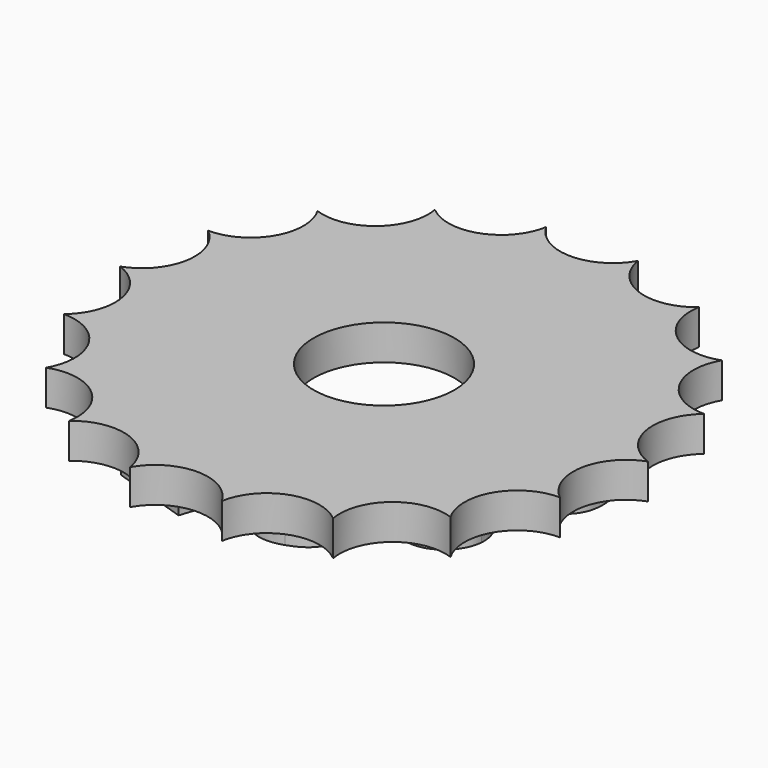
from build123d import *

# Parameters (mm, degrees)
EXTRUDE001_DEPTH   = 1
PAD_DEPTH          = 2
POLARPATTERN_COUNT = 18
SKETCH001_R        = 4
POCKET_DEPTH       = 0.001
POCKET_DEPTH_BACK  = 2.001


with BuildPart() as extrude001:
    # Strings → Extrude001 (new body, symmetric)
    with BuildSketch(Plane(origin=(0, -0.2446599906, 0), x_dir=(0, 1, 0), z_dir=(0, 0, 1))):
        with BuildLine():
            add(Edge.make_bspline(
                [(2.498639998, -8.6508700481), (2.498639998, -7.3772676786), (1.9092286689, -6.6871529063)],
                knots=[0, 0, 0, 1, 1, 1], degree=2))
            Line((2.498639998, -8.6508700481), (2.498639998, -9.7911884487))
            add(Edge.make_bspline(
                [(1.9062668029, -11.7519437245), (2.498639998, -11.0588670863), (2.498639998, -9.7911884487)],
                knots=[0, 0, 0, 1, 1, 1], degree=2))
            add(Edge.make_bspline(
                [(0.2416981246, -12.4450203628), (1.3168554737, -12.4450203628), (1.9062668029, -11.7519437245)],
                knots=[0, 0, 0, 1, 1, 1], degree=2))
            add(Edge.make_bspline(
                [(-1.4228705536, -11.7549055905), (-0.8334592245, -12.4450203628), (0.2416981246, -12.4450203628)],
                knots=[0, 0, 0, 1, 1, 1], degree=2))
            add(Edge.make_bspline(
                [(-2.0093200168, -9.7941503147), (-2.0093200168, -11.0677526842), (-1.4228705536, -11.7549055905)],
                knots=[0, 0, 0, 1, 1, 1], degree=2))
            Line((-2.0093200168, -9.7941503147), (-2.0093200168, -8.6508700481))
            add(Edge.make_bspline(
                [(-1.4199086877, -6.6930766383), (-2.0093200168, -7.3861532766), (-2.0093200168, -8.6508700481)],
                knots=[0, 0, 0, 1, 1, 1], degree=2))
            add(Edge.make_bspline(
                [(0.2505837225, -6), (-0.8275354926, -6), (-1.4199086877, -6.6930766383)],
                knots=[0, 0, 0, 1, 1, 1], degree=2))
            add(Edge.make_bspline(
                [(1.9092286689, -6.6871529063), (1.3227792057, -6), (0.2505837225, -6)],
                knots=[0, 0, 0, 1, 1, 1], degree=2))
        make_face()
        with BuildLine():
            add(Edge.make_bspline(
                [(1.0028976803, -9.9689004073), (1.0028976803, -10.6323583858), (0.8192619899, -10.9611255091)],
                knots=[0, 0, 0, 1, 1, 1], degree=2))
            Line((1.0028976803, -9.9689004073), (1.0028976803, -8.4435394298))
            add(Edge.make_bspline(
                [(0.8133382579, -7.4661236579), (0.9969739484, -7.7771195853), (1.0028976803, -8.4435394298)],
                knots=[0, 0, 0, 1, 1, 1], degree=2))
            add(Edge.make_bspline(
                [(0.2505837225, -7.1551277305), (0.6326644334, -7.1551277305), (0.8133382579, -7.4661236579)],
                knots=[0, 0, 0, 1, 1, 1], degree=2))
            add(Edge.make_bspline(
                [(-0.3269801427, -7.4750092558), (-0.1433444522, -7.1551277305), (0.2505837225, -7.1551277305)],
                knots=[0, 0, 0, 1, 1, 1], degree=2))
            add(Edge.make_bspline(
                [(-0.5076539672, -8.4850055535), (-0.5076539672, -7.7948907812), (-0.3269801427, -7.4750092558)],
                knots=[0, 0, 0, 1, 1, 1], degree=2))
            Line((-0.5076539672, -8.4850055535), (-0.5076539672, -10.0607182525))
            add(Edge.make_bspline(
                [(-0.3210564107, -10.9848204369), (-0.4958065033, -10.6797482414), (-0.5076539672, -10.0607182525)],
                knots=[0, 0, 0, 1, 1, 1], degree=2))
            add(Edge.make_bspline(
                [(0.2416981246, -11.2898926324), (-0.1433444522, -11.2898926324), (-0.3210564107, -10.9848204369)],
                knots=[0, 0, 0, 1, 1, 1], degree=2))
            add(Edge.make_bspline(
                [(0.8192619899, -10.9611255091), (0.6385881653, -11.2898926324), (0.2416981246, -11.2898926324)],
                knots=[0, 0, 0, 1, 1, 1], degree=2))
        make_face(mode=Mode.SUBTRACT)
        Polygon((3.7605886048, -4.8619362014), (4.9754619588, -3.9792790435), (8.7637498788, -9.1934100462), (8.6535246829, -9.2734933386), (5.7984678052, -10.1762719206), (5.1299464076, -9.2561311554), (6.5722085454, -8.7317990549), align=None)
        with BuildLine():
            Line((5.2741591999, -3.9372009483), (6.6690259883, 0.3557576029))
            Line((6.6690259883, 0.3557576029), (7.7676177435, -0.0011964965))
            Line((7.7676177435, -0.0011964965), (6.980488191, -2.4237321618))
            Line((6.980488191, -2.4237321618), (8.1315513767, -1.9195054299))
            add(Edge.make_bspline(
                [(9.413027169, -1.3206235542), (8.9543879582, -1.48614595), (8.1315513767, -1.9195054299)],
                knots=[0, 0, 0, 1, 1, 1], degree=2))
            add(Edge.make_bspline(
                [(10.2573595932, -1.127820261), (9.8753985486, -1.1531995234), (9.413027169, -1.3206235542)],
                knots=[0, 0, 0, 1, 1, 1], degree=2))
            add(Edge.make_bspline(
                [(10.9970671838, -1.2186798977), (10.6393206378, -1.1024409987), (10.2573595932, -1.127820261)],
                knots=[0, 0, 0, 1, 1, 1], degree=2))
            add(Edge.make_bspline(
                [(12.1199277276, -2.1814631203), (11.8449546667, -1.4941752411), (10.9970671838, -1.2186798977)],
                knots=[0, 0, 0, 1, 1, 1], degree=2))
            add(Edge.make_bspline(
                [(12.0746284671, -3.86403265), (12.3986329573, -2.8668493645), (12.1199277276, -2.1814631203)],
                knots=[0, 0, 0, 1, 1, 1], degree=2))
            add(Edge.make_bspline(
                [(11.4446481834, -4.9019414321), (11.8732697444, -4.4837510761), (12.0746284671, -3.86403265)],
                knots=[0, 0, 0, 1, 1, 1], degree=2))
            add(Edge.make_bspline(
                [(10.4512604049, -5.4480571389), (11.0169418893, -5.3173148861), (11.4446481834, -4.9019414321)],
                knots=[0, 0, 0, 1, 1, 1], degree=2))
            add(Edge.make_bspline(
                [(9.3343814079, -5.3965901731), (9.8893110894, -5.5768977567), (10.4512604049, -5.4480571389)],
                knots=[0, 0, 0, 1, 1, 1], degree=2))
            Line((9.3343814079, -5.3965901731), (9.7984217371, -3.9684208913))
            add(Edge.make_bspline(
                [(10.5262929105, -3.9806916785), (10.1956049102, -4.0974735273), (9.7984217371, -3.9684208913)],
                knots=[0, 0, 0, 1, 1, 1], degree=2))
            add(Edge.make_bspline(
                [(10.9650535088, -3.5408813739), (10.8597978129, -3.8648250966), (10.5262929105, -3.9806916785)],
                knots=[0, 0, 0, 1, 1, 1], degree=2))
            add(Edge.make_bspline(
                [(10.9251540814, -2.9735736109), (11.0721397386, -3.2113038473), (10.9650535088, -3.5408813739)],
                knots=[0, 0, 0, 1, 1, 1], degree=2))
            add(Edge.make_bspline(
                [(10.3959850278, -2.6085501711), (10.7819005931, -2.7339417394), (10.9251540814, -2.9735736109)],
                knots=[0, 0, 0, 1, 1, 1], degree=2))
            add(Edge.make_bspline(
                [(8.8716067101, -2.9198507895), (9.9199286005, -2.4538700614), (10.3959850278, -2.6085501711)],
                knots=[0, 0, 0, 1, 1, 1], degree=2))
            Line((8.8716067101, -2.9198507895), (6.2037368389, -4.2392390324))
            Line((6.2037368389, -4.2392390324), (5.2741591999, -3.9372009483))
        make_face()
        with BuildLine():
            Line((9.7648309321, 2.9983051997), (9.9826644594, 2.3278825388))
            Line((9.9826644594, 2.3278825388), (8.9206924293, 1.9828269094))
            Line((8.9206924293, 1.9828269094), (8.6955367667, 2.6757847858))
            add(Edge.make_bspline(
                [(8.2905880399, 3.2511528408), (8.562823063, 3.0842355666), (8.6955367667, 2.6757847858)],
                knots=[0, 0, 0, 1, 1, 1], degree=2))
            add(Edge.make_bspline(
                [(7.5441982246, 3.2671221743), (8.0174377499, 3.4208870171), (8.2905880399, 3.2511528408)],
                knots=[0, 0, 0, 1, 1, 1], degree=2))
            add(Edge.make_bspline(
                [(7.0709406026, 2.8642082366), (7.2118037961, 3.1591206775), (7.5441982246, 3.2671221743)],
                knots=[0, 0, 0, 1, 1, 1], degree=2))
            add(Edge.make_bspline(
                [(7.0537095447, 2.1983800069), (6.9319790442, 2.5730279645), (7.0709406026, 2.8642082366)],
                knots=[0, 0, 0, 1, 1, 1], degree=2))
            add(Edge.make_bspline(
                [(7.4480305743, 1.7036446387), (7.1626263084, 1.8631686765), (7.0537095447, 2.1983800069)],
                knots=[0, 0, 0, 1, 1, 1], degree=2))
            add(Edge.make_bspline(
                [(8.0207588377, 1.637477827), (7.7334348401, 1.544120601), (7.4480305743, 1.7036446387)],
                knots=[0, 0, 0, 1, 1, 1], degree=2))
            Line((8.0207588377, 1.637477827), (8.4857144338, 0.2064916433))
            add(Edge.make_bspline(
                [(7.4644679003, 0.1674118074), (7.9617706736, 0.0362519959), (8.4857144338, 0.2064916433)],
                knots=[0, 0, 0, 1, 1, 1], degree=2))
            add(Edge.make_bspline(
                [(6.5677700546, 0.7418296876), (6.9690667619, 0.3023037877), (7.4644679003, 0.1674118074)],
                knots=[0, 0, 0, 1, 1, 1], degree=2))
            add(Edge.make_bspline(
                [(5.9715925941, 1.7907216727), (6.1683749822, 1.1850877563), (6.5677700546, 0.7418296876)],
                knots=[0, 0, 0, 1, 1, 1], degree=2))
            add(Edge.make_bspline(
                [(5.9292614862, 3.6175129622), (5.6366049008, 2.8217077814), (5.9715925941, 1.7907216727)],
                knots=[0, 0, 0, 1, 1, 1], degree=2))
            add(Edge.make_bspline(
                [(7.0529041429, 4.6833218849), (6.2219180717, 4.413318143), (5.9292614862, 3.6175129622)],
                knots=[0, 0, 0, 1, 1, 1], degree=2))
            add(Edge.make_bspline(
                [(8.0449241878, 4.6973340081), (7.5909324128, 4.8581378669), (7.0529041429, 4.6833218849)],
                knots=[0, 0, 0, 1, 1, 1], degree=2))
            add(Edge.make_bspline(
                [(8.8384541311, 4.1049662953), (8.4989159628, 4.5365301492), (8.0449241878, 4.6973340081)],
                knots=[0, 0, 0, 1, 1, 1], degree=2))
            add(Edge.make_bspline(
                [(9.1382996979, 4.9840788626), (8.8902520285, 4.6356543331), (8.8384541311, 4.1049662953)],
                knots=[0, 0, 0, 1, 1, 1], degree=2))
            add(Edge.make_bspline(
                [(9.7553615209, 5.4524033587), (9.3891642692, 5.3334186589), (9.1382996979, 4.9840788626)],
                knots=[0, 0, 0, 1, 1, 1], degree=2))
            add(Edge.make_bspline(
                [(11.1410187286, 5.2517440287), (10.5159250438, 5.6995254275), (9.7553615209, 5.4524033587)],
                knots=[0, 0, 0, 1, 1, 1], degree=2))
            add(Edge.make_bspline(
                [(12.1011712078, 3.7823424939), (11.7680140484, 4.8076947988), (11.1410187286, 5.2517440287)],
                knots=[0, 0, 0, 1, 1, 1], degree=2))
            add(Edge.make_bspline(
                [(12.241579364, 2.6601050494), (12.2878856598, 3.2076944988), (12.1011712078, 3.7823424939)],
                knots=[0, 0, 0, 1, 1, 1], degree=2))
            add(Edge.make_bspline(
                [(11.9216599778, 1.72775575), (12.1943578012, 2.1153325018), (12.241579364, 2.6601050494)],
                knots=[0, 0, 0, 1, 1, 1], degree=2))
            add(Edge.make_bspline(
                [(11.1898071388, 1.1909904899), (11.6489621544, 1.3401789981), (11.9216599778, 1.72775575)],
                knots=[0, 0, 0, 1, 1, 1], degree=2))
            Line((11.1898071388, 1.1909904899), (10.7266820765, 2.6163428698))
            add(Edge.make_bspline(
                [(11.0054312625, 2.9373714444), (10.9351328198, 2.6840726219), (10.7266820765, 2.6163428698)],
                knots=[0, 0, 0, 1, 1, 1], degree=2))
            add(Edge.make_bspline(
                [(10.986104648, 3.4760926294), (11.0785466071, 3.1915855338), (11.0054312625, 2.9373714444)],
                knots=[0, 0, 0, 1, 1, 1], degree=2))
            add(Edge.make_bspline(
                [(10.6488236206, 3.9582185158), (10.8735268167, 3.8225715675), (10.986104648, 3.4760926294)],
                knots=[0, 0, 0, 1, 1, 1], degree=2))
            add(Edge.make_bspline(
                [(10.1668670814, 4.0133930762), (10.4232051576, 4.0966823661), (10.6488236206, 3.9582185158)],
                knots=[0, 0, 0, 1, 1, 1], degree=2))
            add(Edge.make_bspline(
                [(9.7648309321, 2.9983051997), (9.5048951264, 3.7983053497), (10.1668670814, 4.0133930762)],
                knots=[0, 0, 0, 1, 1, 1], degree=2))
        make_face()
        Polygon((3.3004784052, 8.2422341437), (3.8324347851, 7.8557452107), (6.1722596769, 11.0762378888), (7.384736831, 10.1953216721), (7.3760321253, 10.1833406725), (6.9981744276, 5.2591542452), (6.3883376182, 4.5709567074), (4.3659448947, 6.0403110294), (3.596448911, 4.9811906694), (2.3839717569, 5.8621068861), (3.1534677406, 6.921227246), (2.6215113608, 7.3077161791), align=None)
        Polygon((5.0449119392, 6.974828994), (5.9866185036, 6.2906391261), (6.2264327012, 8.444842961), (6.2426794433, 8.6234145316), align=None, mode=Mode.SUBTRACT)
        with BuildLine():
            Line((1.9817943853, 12.4450203628), (2.37572256, 9.2521288412))
            Line((2.37572256, 9.2521288412), (1.1850524378, 8.9825990374))
            add(Edge.make_bspline(
                [(0.4031198203, 9.3232136246), (0.927370098, 9.3232136246), (1.1850524378, 8.9825990374)],
                knots=[0, 0, 0, 1, 1, 1], degree=2))
            add(Edge.make_bspline(
                [(-0.5209823641, 8.2806368012), (-0.5209823641, 9.3232136246), (0.4031198203, 9.3232136246)],
                knots=[0, 0, 0, 1, 1, 1], degree=2))
            add(Edge.make_bspline(
                [(0.2342934597, 7.1551277305), (-0.5209823641, 7.1551277305), (-0.5209823641, 8.2806368012)],
                knots=[0, 0, 0, 1, 1, 1], degree=2))
            add(Edge.make_bspline(
                [(0.7733530672, 7.3654202147), (0.5689843149, 7.1551277305), (0.2342934597, 7.1551277305)],
                knots=[0, 0, 0, 1, 1, 1], degree=2))
            add(Edge.make_bspline(
                [(0.9984548814, 7.934098482), (0.9777218195, 7.575712699), (0.7733530672, 7.3654202147)],
                knots=[0, 0, 0, 1, 1, 1], degree=2))
            Line((0.9984548814, 7.934098482), (2.500120931, 7.934098482))
            add(Edge.make_bspline(
                [(2.2039343334, 6.9418733802), (2.5060446629, 7.3802295446), (2.500120931, 7.934098482)],
                knots=[0, 0, 0, 1, 1, 1], degree=2))
            add(Edge.make_bspline(
                [(1.3686881283, 6.2517586079), (1.9018240039, 6.5035172158), (2.2039343334, 6.9418733802)],
                knots=[0, 0, 0, 1, 1, 1], degree=2))
            add(Edge.make_bspline(
                [(0.2254078618, 6), (0.8355522527, 6), (1.3686881283, 6.2517586079)],
                knots=[0, 0, 0, 1, 1, 1], degree=2))
            add(Edge.make_bspline(
                [(-0.9593385285, 6.2724916698), (-0.4587831786, 6), (0.2254078618, 6)],
                knots=[0, 0, 0, 1, 1, 1], degree=2))
            add(Edge.make_bspline(
                [(-1.73830928, 7.0485005553), (-1.4628557443, 6.5449833395), (-0.9593385285, 6.2724916698)],
                knots=[0, 0, 0, 1, 1, 1], degree=2))
            add(Edge.make_bspline(
                [(-2.0167246817, 8.179933358), (-2.0167246817, 7.5549796372), (-1.73830928, 7.0485005553)],
                knots=[0, 0, 0, 1, 1, 1], degree=2))
            add(Edge.make_bspline(
                [(-1.498398136, 9.7852647168), (-2.0167246817, 9.2136245835), (-2.0167246817, 8.179933358)],
                knots=[0, 0, 0, 1, 1, 1], degree=2))
            add(Edge.make_bspline(
                [(-0.0174651482, 10.359866716), (-0.9830334563, 10.359866716), (-1.498398136, 9.7852647168)],
                knots=[0, 0, 0, 1, 1, 1], degree=2))
            add(Edge.make_bspline(
                [(0.4919757996, 10.2887819326), (0.2313315937, 10.359866716), (-0.0174651482, 10.359866716)],
                knots=[0, 0, 0, 1, 1, 1], degree=2))
            add(Edge.make_bspline(
                [(0.9095989021, 10.122917438), (0.7496581394, 10.2176971492), (0.4919757996, 10.2887819326)],
                knots=[0, 0, 0, 1, 1, 1], degree=2))
            Line((0.9095989021, 10.122917438), (0.7644674693, 11.2810070344))
            Line((0.7644674693, 11.2810070344), (-1.8005084655, 11.2810070344))
            Line((-1.8005084655, 11.2810070344), (-1.8005084655, 12.4450203628))
            Line((-1.8005084655, 12.4450203628), (1.9817943853, 12.4450203628))
        make_face()
        with BuildLine():
            Line((-7.4449519291, 8.3389561272), (-8.1378465027, 9.2926436911))
            Line((-8.1378465027, 9.2926436911), (-7.9533391097, 9.4266961589))
            add(Edge.make_bspline(
                [(-6.265803734, 10.1072632917), (-7.1697817394, 9.9959839116), (-7.9533391097, 9.4266961589)],
                knots=[0, 0, 0, 1, 1, 1], degree=2))
            add(Edge.make_bspline(
                [(-4.5641282453, 9.8462262195), (-5.3659628696, 10.2191979305), (-6.265803734, 10.1072632917)],
                knots=[0, 0, 0, 1, 1, 1], degree=2))
            add(Edge.make_bspline(
                [(-3.1971430094, 8.6903523968), (-3.766430762, 9.4739097672), (-4.5641282453, 9.8462262195)],
                knots=[0, 0, 0, 1, 1, 1], degree=2))
            Line((-3.1971430094, 8.6903523968), (-2.8541776048, 8.2183010147))
            add(Edge.make_bspline(
                [(-2.341505435, 6.9835704348), (-2.4296128019, 7.6188206138), (-2.8541776048, 8.2183010147)],
                knots=[0, 0, 0, 1, 1, 1], degree=2))
            add(Edge.make_bspline(
                [(-2.5143266552, 5.7853156366), (-2.2551390092, 6.3507164558), (-2.341505435, 6.9835704348)],
                knots=[0, 0, 0, 1, 1, 1], degree=2))
            add(Edge.make_bspline(
                [(-3.3311736213, 4.8184126729), (-2.7752552423, 5.2223110173), (-2.5143266552, 5.7853156366)],
                knots=[0, 0, 0, 1, 1, 1], degree=2))
            add(Edge.make_bspline(
                [(-4.4352181352, 4.3677398786), (-3.8463566018, 4.4441103278), (-3.3311736213, 4.8184126729)],
                knots=[0, 0, 0, 1, 1, 1], degree=2))
            add(Edge.make_bspline(
                [(-5.5548672536, 4.5281111821), (-5.0240796687, 4.2913694293), (-4.4352181352, 4.3677398786)],
                knots=[0, 0, 0, 1, 1, 1], degree=2))
            add(Edge.make_bspline(
                [(-6.444943972, 5.2543329753), (-6.0897919795, 4.7655081938), (-5.5548672536, 4.5281111821)],
                knots=[0, 0, 0, 1, 1, 1], degree=2))
            add(Edge.make_bspline(
                [(-6.9685630735, 6.8215894385), (-7.0194545481, 6.0450789454), (-6.444943972, 5.2543329753)],
                knots=[0, 0, 0, 1, 1, 1], degree=2))
            add(Edge.make_bspline(
                [(-6.2388917659, 8.0949234152), (-6.9194125401, 7.6004961316), (-6.9685630735, 6.8215894385)],
                knots=[0, 0, 0, 1, 1, 1], degree=2))
            add(Edge.make_bspline(
                [(-4.916478117, 8.4516370026), (-5.6134835896, 8.5493090527), (-6.2388917659, 8.0949234152)],
                knots=[0, 0, 0, 1, 1, 1], degree=2))
            add(Edge.make_bspline(
                [(-6.055592531, 8.8907513559), (-5.4036074462, 8.9104738546), (-4.916478117, 8.4516370026)],
                knots=[0, 0, 0, 1, 1, 1], degree=2))
            add(Edge.make_bspline(
                [(-7.3898393312, 8.3789977734), (-6.7117147569, 8.871684116), (-6.055592531, 8.8907513559)],
                knots=[0, 0, 0, 1, 1, 1], degree=2))
            Line((-7.3898393312, 8.3789977734), (-7.4449519291, 8.3389561272))
        make_face()
        with BuildLine():
            add(Edge.make_bspline(
                [(-5.1458125607, 7.4722587498), (-4.9037963699, 7.6480938049), (-4.6625124247, 7.6586488065)],
                knots=[0, 0, 0, 1, 1, 1], degree=2))
            add(Edge.make_bspline(
                [(-5.4777470512, 6.8759706604), (-5.4573185489, 7.2459364016), (-5.1458125607, 7.4722587498)],
                knots=[0, 0, 0, 1, 1, 1], degree=2))
            add(Edge.make_bspline(
                [(-5.2300706179, 6.1369901331), (-5.4981755535, 6.5060049192), (-5.4777470512, 6.8759706604)],
                knots=[0, 0, 0, 1, 1, 1], degree=2))
            add(Edge.make_bspline(
                [(-4.6114136224, 5.6785259645), (-4.9706703881, 5.7799563466), (-5.2300706179, 6.1369901331)],
                knots=[0, 0, 0, 1, 1, 1], degree=2))
            add(Edge.make_bspline(
                [(-3.978990067, 5.7755628723), (-4.2545530565, 5.5753546413), (-4.6114136224, 5.6785259645)],
                knots=[0, 0, 0, 1, 1, 1], degree=2))
            add(Edge.make_bspline(
                [(-3.9806933843, 7.2241081435), (-3.291280693, 6.2752129794), (-3.978990067, 5.7755628723)],
                knots=[0, 0, 0, 1, 1, 1], degree=2))
            Line((-3.9806933843, 7.2241081435), (-4.2331298496, 7.5715571303))
            add(Edge.make_bspline(
                [(-4.6625124247, 7.6586488065), (-4.4253656207, 7.6698590668), (-4.2331298496, 7.5715571303)],
                knots=[0, 0, 0, 1, 1, 1], degree=2))
        make_face(mode=Mode.SUBTRACT)
        Polygon((-5.4351363665, 1.9357921224), (-11.5510092653, 1.3816988947), (-12.3115727881, 1.6288209635), (-10.8709426537, 6.0626246114), (-9.7723508985, 5.7056705121), (-10.7251437637, 2.7732755962), (-4.9463838304, 3.4400177565), align=None)
        with BuildLine():
            add(Edge.make_bspline(
                [(-9.3134621909, -5.3447967999), (-8.8965607043, -5.2093372955), (-8.6477399703, -4.8824616135)],
                knots=[0, 0, 0, 1, 1, 1], degree=2))
            add(Edge.make_bspline(
                [(-10.6769396889, -5.1836451982), (-10.0655750079, -5.5891730679), (-9.3134621909, -5.3447967999)],
                knots=[0, 0, 0, 1, 1, 1], degree=2))
            add(Edge.make_bspline(
                [(-11.5912577209, -3.8457227875), (-11.287389103, -4.7809342304), (-10.6769396889, -5.1836451982)],
                knots=[0, 0, 0, 1, 1, 1], degree=2))
            add(Edge.make_bspline(
                [(-11.6324072538, -2.2334336038), (-11.8914652712, -2.9217789523), (-11.5912577209, -3.8457227875)],
                knots=[0, 0, 0, 1, 1, 1], degree=2))
            add(Edge.make_bspline(
                [(-10.6259549563, -1.305359423), (-11.3752508714, -1.5488204241), (-11.6324072538, -2.2334336038)],
                knots=[0, 0, 0, 1, 1, 1], degree=2))
            add(Edge.make_bspline(
                [(-9.8128036602, -1.2871794756), (-10.2062365678, -1.1689846517), (-10.6259549563, -1.305359423)],
                knots=[0, 0, 0, 1, 1, 1], degree=2))
            add(Edge.make_bspline(
                [(-9.099684052, -1.73750242), (-9.4212723877, -1.4091064684), (-9.8128036602, -1.2871794756)],
                knots=[0, 0, 0, 1, 1, 1], degree=2))
            add(Edge.make_bspline(
                [(-8.7330770045, -0.8242405719), (-9.030984743, -1.2013227806), (-9.099684052, -1.73750242)],
                knots=[0, 0, 0, 1, 1, 1], degree=2))
            add(Edge.make_bspline(
                [(-7.9393945252, -0.2860713851), (-8.435169266, -0.4471583633), (-8.7330770045, -0.8242405719)],
                knots=[0, 0, 0, 1, 1, 1], degree=2))
            add(Edge.make_bspline(
                [(-6.4503561117, -0.4406829643), (-7.1196760617, -0.0197287109), (-7.9393945252, -0.2860713851)],
                knots=[0, 0, 0, 1, 1, 1], degree=2))
            add(Edge.make_bspline(
                [(-5.4571027726, -1.8681864759), (-5.7829377966, -0.8653693866), (-6.4503561117, -0.4406829643)],
                knots=[0, 0, 0, 1, 1, 1], degree=2))
            add(Edge.make_bspline(
                [(-5.4280029603, -3.5871624273), (-5.1330982824, -2.8653697614), (-5.4571027726, -1.8681864759)],
                knots=[0, 0, 0, 1, 1, 1], degree=2))
            add(Edge.make_bspline(
                [(-6.5473446388, -4.5799452031), (-5.7219923714, -4.3117719951), (-5.4280029603, -3.5871624273)],
                knots=[0, 0, 0, 1, 1, 1], degree=2))
            add(Edge.make_bspline(
                [(-7.5160564036, -4.6081840383), (-7.0572038893, -4.7456085159), (-6.5473446388, -4.5799452031)],
                knots=[0, 0, 0, 1, 1, 1], degree=2))
            add(Edge.make_bspline(
                [(-8.3336767399, -4.1046153136), (-7.973993651, -4.4735764627), (-7.5160564036, -4.6081840383)],
                knots=[0, 0, 0, 1, 1, 1], degree=2))
            add(Edge.make_bspline(
                [(-8.6477399703, -4.8824616135), (-8.4017361383, -4.5565011984), (-8.3336767399, -4.1046153136)],
                knots=[0, 0, 0, 1, 1, 1], degree=2))
        make_face()
        with BuildLine():
            add(Edge.make_bspline(
                [(-7.1240610454, -3.1883865982), (-7.5043428068, -3.3119476326), (-7.7740453327, -3.1815789823)],
                knots=[0, 0, 0, 1, 1, 1], degree=2))
            add(Edge.make_bspline(
                [(-6.6012988602, -2.8036448449), (-6.7494130879, -3.0666560977), (-7.1240610454, -3.1883865982)],
                knots=[0, 0, 0, 1, 1, 1], degree=2))
            add(Edge.make_bspline(
                [(-6.5556945278, -2.2251405753), (-6.4531846326, -2.5406335922), (-6.6012988602, -2.8036448449)],
                knots=[0, 0, 0, 1, 1, 1], degree=2))
            add(Edge.make_bspline(
                [(-6.9409339893, -1.7679401992), (-6.6618654907, -1.8983799507), (-6.5556945278, -2.2251405753)],
                knots=[0, 0, 0, 1, 1, 1], degree=2))
            add(Edge.make_bspline(
                [(-7.5890166416, -1.7574004145), (-7.2200024879, -1.6375004478), (-6.9409339893, -1.7679401992)],
                knots=[0, 0, 0, 1, 1, 1], degree=2))
            add(Edge.make_bspline(
                [(-8.1108635598, -2.1449590697), (-7.969298403, -1.8809614489), (-7.5890166416, -1.7574004145)],
                knots=[0, 0, 0, 1, 1, 1], degree=2))
            add(Edge.make_bspline(
                [(-8.1471730207, -2.7329004132), (-8.2515134498, -2.4117735925), (-8.1108635598, -2.1449590697)],
                knots=[0, 0, 0, 1, 1, 1], degree=2))
            add(Edge.make_bspline(
                [(-7.7740453327, -3.1815789823), (-8.0428325917, -3.054027234), (-8.1471730207, -2.7329004132)],
                knots=[0, 0, 0, 1, 1, 1], degree=2))
        make_face(mode=Mode.SUBTRACT)
        with BuildLine():
            add(Edge.make_bspline(
                [(-10.4926659657, -3.4887686881), (-10.5860231917, -3.2014446905), (-10.4711520262, -2.9990634065)],
                knots=[0, 0, 0, 1, 1, 1], degree=2))
            add(Edge.make_bspline(
                [(-10.1846734798, -3.8807537126), (-10.3965629389, -3.7845433914), (-10.4926659657, -3.4887686881)],
                knots=[0, 0, 0, 1, 1, 1], degree=2))
            add(Edge.make_bspline(
                [(-9.6873616581, -3.8873389766), (-9.9718687537, -3.9797809357), (-10.1846734798, -3.8807537126)],
                knots=[0, 0, 0, 1, 1, 1], degree=2))
            add(Edge.make_bspline(
                [(-9.2758005224, -3.5916715677), (-9.4028545625, -3.7948970176), (-9.6873616581, -3.8873389766)],
                knots=[0, 0, 0, 1, 1, 1], degree=2))
            add(Edge.make_bspline(
                [(-9.2430189752, -3.0983052184), (-9.1487464822, -3.3884461179), (-9.2758005224, -3.5916715677)],
                knots=[0, 0, 0, 1, 1, 1], degree=2))
            add(Edge.make_bspline(
                [(-9.5631943357, -2.7071643597), (-9.3391220019, -2.8025305151), (-9.2430189752, -3.0983052184)],
                knots=[0, 0, 0, 1, 1, 1], degree=2))
            add(Edge.make_bspline(
                [(-10.0717737651, -2.7042401633), (-9.7872666696, -2.6117982042), (-9.5631943357, -2.7071643597)],
                knots=[0, 0, 0, 1, 1, 1], degree=2))
            add(Edge.make_bspline(
                [(-10.4711520262, -2.9990634065), (-10.3590977627, -2.7975973893), (-10.0717737651, -2.7042401633)],
                knots=[0, 0, 0, 1, 1, 1], degree=2))
        make_face(mode=Mode.SUBTRACT)
        with BuildLine():
            add(Edge.make_bspline(
                [(-4.1599748911, -7.3171776332), (-4.3039970932, -6.6890066993), (-4.7880294749, -6.337336589)],
                knots=[0, 0, 0, 1, 1, 1], degree=2))
            add(Edge.make_bspline(
                [(-4.7844119958, -5.248966671), (-3.5753782305, -6.2152467438), (-4.1599748911, -7.3171776332)],
                knots=[0, 0, 0, 1, 1, 1], degree=2))
            Line((-4.7844119958, -5.248966671), (-5.0127062459, -5.0794401217))
            Line((-5.0127062459, -5.0794401217), (-4.3076250843, -4.1089791585))
            Line((-4.3076250843, -4.1089791585), (-4.2309466872, -4.1646892749))
            add(Edge.make_bspline(
                [(-3.0071184199, -5.5590798988), (-3.3946729189, -4.7722777327), (-4.2309466872, -4.1646892749)],
                knots=[0, 0, 0, 1, 1, 1], degree=2))
            add(Edge.make_bspline(
                [(-2.7243292069, -7.2106600245), (-2.6171677211, -6.347623006), (-3.0071184199, -5.5590798988)],
                knots=[0, 0, 0, 1, 1, 1], degree=2))
            add(Edge.make_bspline(
                [(-3.4425610327, -8.9147632112), (-2.8332316338, -8.076093243), (-2.7243292069, -7.2106600245)],
                knots=[0, 0, 0, 1, 1, 1], degree=2))
            Line((-3.4425610327, -8.9147632112), (-3.7698579669, -9.3652487942))
            add(Edge.make_bspline(
                [(-4.7831110827, -10.2509302989), (-4.2140227927, -9.961472148), (-3.7698579669, -9.3652487942)],
                knots=[0, 0, 0, 1, 1, 1], degree=2))
            add(Edge.make_bspline(
                [(-5.9536779176, -10.4914618818), (-5.3515441138, -10.5445255908), (-4.7831110827, -10.2509302989)],
                knots=[0, 0, 0, 1, 1, 1], degree=2))
            add(Edge.make_bspline(
                [(-7.075131843, -10.0647510866), (-6.5575526626, -10.4407943728), (-5.9536779176, -10.4914618818)],
                knots=[0, 0, 0, 1, 1, 1], degree=2))
            add(Edge.make_bspline(
                [(-7.8296776114, -9.1431125925), (-7.5855224237, -9.6939306238), (-7.075131843, -10.0647510866)],
                knots=[0, 0, 0, 1, 1, 1], degree=2))
            add(Edge.make_bspline(
                [(-8.0039956909, -8.0023473453), (-8.0738327992, -8.5922945612), (-7.8296776114, -9.1431125925)],
                knots=[0, 0, 0, 1, 1, 1], degree=2))
            add(Edge.make_bspline(
                [(-7.5800922724, -6.930108689), (-7.9335033238, -7.4165372706), (-8.0039956909, -8.0023473453)],
                knots=[0, 0, 0, 1, 1, 1], degree=2))
            add(Edge.make_bspline(
                [(-6.2561231544, -5.9846122946), (-7.0125454609, -6.1489475186), (-7.5800922724, -6.930108689)],
                knots=[0, 0, 0, 1, 1, 1], degree=2))
            add(Edge.make_bspline(
                [(-4.7880294749, -6.337336589), (-5.499700848, -5.8202770706), (-6.2561231544, -5.9846122946)],
                knots=[0, 0, 0, 1, 1, 1], degree=2))
        make_face()
        with BuildLine():
            add(Edge.make_bspline(
                [(-5.0975898032, -7.4487175509), (-4.7022168182, -7.735972839), (-4.7629765374, -8.1824113889)],
                knots=[0, 0, 0, 1, 1, 1], degree=2))
            add(Edge.make_bspline(
                [(-5.7446153933, -7.3264273732), (-5.4019071917, -7.2276180262), (-5.0975898032, -7.4487175509)],
                knots=[0, 0, 0, 1, 1, 1], degree=2))
            add(Edge.make_bspline(
                [(-6.3652189184, -7.8127658468), (-6.0849273949, -7.4269776614), (-5.7446153933, -7.3264273732)],
                knots=[0, 0, 0, 1, 1, 1], degree=2))
            add(Edge.make_bspline(
                [(-6.6435962801, -8.5587293854), (-6.6298419716, -8.176988233), (-6.3652189184, -7.8127658468)],
                knots=[0, 0, 0, 1, 1, 1], degree=2))
            add(Edge.make_bspline(
                [(-6.4033533982, -9.1250102985), (-6.6573505886, -8.9404705377), (-6.6435962801, -8.5587293854)],
                knots=[0, 0, 0, 1, 1, 1], degree=2))
            add(Edge.make_bspline(
                [(-5.7826860072, -9.2281501237), (-6.1158094091, -9.3339232353), (-6.4033533982, -9.1250102985)],
                knots=[0, 0, 0, 1, 1, 1], degree=2))
            add(Edge.make_bspline(
                [(-5.105941942, -8.654462771), (-5.4489073465, -9.1265141532), (-5.7826860072, -9.2281501237)],
                knots=[0, 0, 0, 1, 1, 1], degree=2))
            Line((-5.105941942, -8.654462771), (-4.7629765374, -8.1824113889))
        make_face(mode=Mode.SUBTRACT)
    extrude(amount=EXTRUDE001_DEPTH, both=True)


with BuildPart() as body:
    # Sketch002 → Pad (new body)
    with BuildSketch(Plane.XY):
        with BuildLine():
            Line((-2.604722665, 14.7721162952), (0, 0))
            Line((0, 0), (2.604722665, 14.7721162952))
            ThreePointArc((-2.604722665, 14.7721162952), (0, 13.2605449426), (2.604722665, 14.7721162952))
        make_face()
    pad = extrude(amount=PAD_DEPTH)

    # PolarPattern: Pad ×18 about axis
    polarpattern_axis = Axis((0, 0, 0), (0, 0, 1))
    for i in range(1, POLARPATTERN_COUNT):
        add(pad.rotate(polarpattern_axis, i * 360 / POLARPATTERN_COUNT))

    # Sketch001 → Pocket (cut, two sides)
    with BuildSketch(Plane.XY) as pocket_sk:
        Circle(SKETCH001_R)
    extrude(amount=-POCKET_DEPTH, mode=Mode.SUBTRACT)
    extrude(pocket_sk.sketch, amount=POCKET_DEPTH_BACK, mode=Mode.SUBTRACT)


solid = Compound([extrude001.part, body.part])
